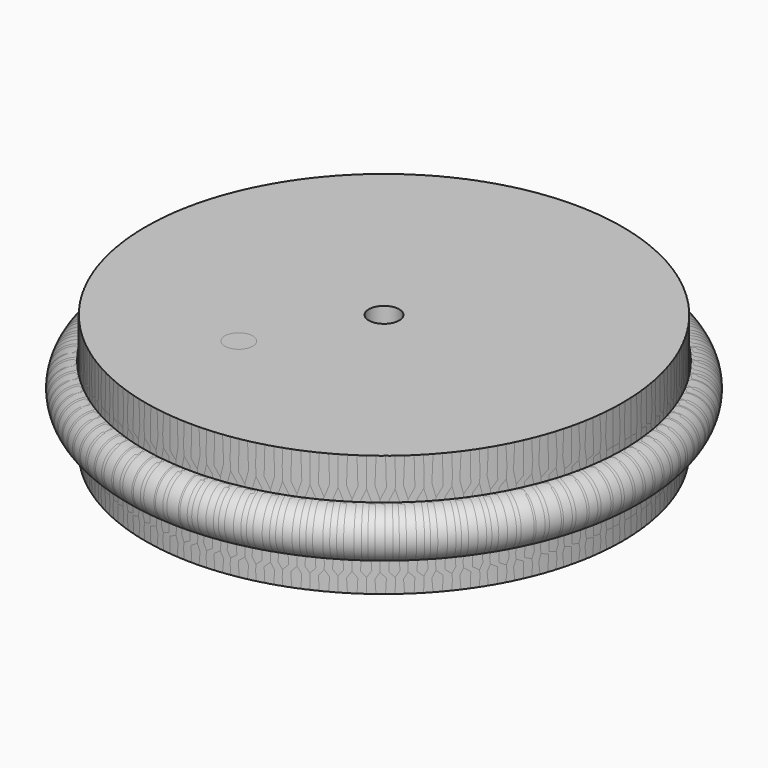
from build123d import *

# Parameters (mm, degrees)
F0_R      = 49.727376
F1_DEPTH  = 25.4
F4_R      = 24.073004
F2_R      = 34.926624
F8_R      = 3.175
F9_DEPTH  = 152.4
F10_R     = 2.917274
F11_DEPTH = 0.508
F12_COUNT = 3


with BuildPart() as f1:
    # F0 (on Top) → F1 (new body)
    with BuildSketch(Plane.XY):
        Circle(F0_R)
    extrude(amount=F1_DEPTH)

    # F4 (on offset) → F5 section 0
    with BuildSketch(Plane.XY.offset(-12.7)):
        Circle(F4_R)
    # F2 (on Top) → F5 section 1
    with BuildSketch(Plane.XY):
        Circle(F2_R)
    loft()

    # F6 (on Front) → F7 (revolve)
    with BuildSketch(Plane.XZ):
        with BuildLine():
            Line((-49.482231, 6.956913), (-50.036106, 16.957344))
            ThreePointArc((-50.036106, 16.957344), (-55.043985, 11.664428), (-49.482231, 6.956913))
        make_face()
    revolve(axis=Axis((0, 0, 0), (0, 0, -1)))

    # F8 (on face) → F9 (cut)
    with BuildSketch(Plane.XY.offset(25.4)):
        Circle(F8_R)
    extrude(amount=-F9_DEPTH, mode=Mode.SUBTRACT)

    # F10 (on face) → F11 (cut)
    with BuildSketch(Plane.XY.offset(25.4)):
        with Locations((25.4, 0)):
            Circle(F10_R)
    extrude(amount=-F11_DEPTH, mode=Mode.SUBTRACT)


with BuildPart() as f12_1:
    # F12: instance of F1
    add(f1.part.rotate(Axis((0, 0, 25.4), (0, 0, 1)), 1 * 360 / F12_COUNT))


with BuildPart() as f12_2:
    # F12: instance of F1
    add(f1.part.rotate(Axis((0, 0, 25.4), (0, 0, 1)), 2 * 360 / F12_COUNT))


solid = Compound([f1.part, f12_1.part, f12_2.part])
